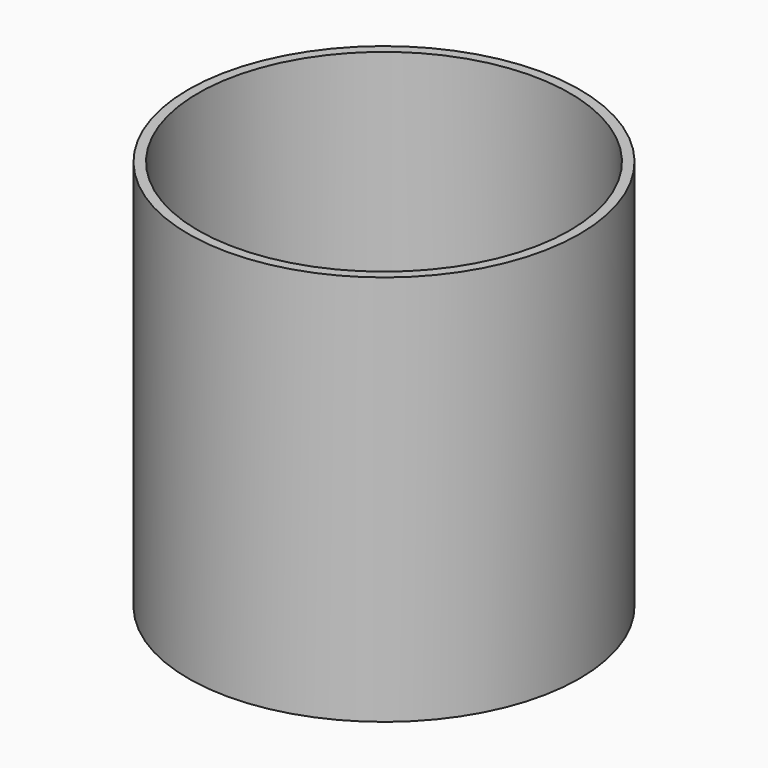
from build123d import *

# Parameters (mm, degrees)
F0_R     = 152.4
F1_DEPTH = 152.4
F2_T     = -7.62


with BuildPart() as f1:
    # F0 (on Top) → F1 (new body, symmetric)
    with BuildSketch(Plane.XY):
        Circle(F0_R)
    extrude(amount=F1_DEPTH, both=True)

    # F2
    f2_openings = [f1.faces().sort_by_distance(p)[0] for p in [
        (0, 0, 152.4),
    ]]
    offset(amount=F2_T, openings=f2_openings)


solid = f1.part
